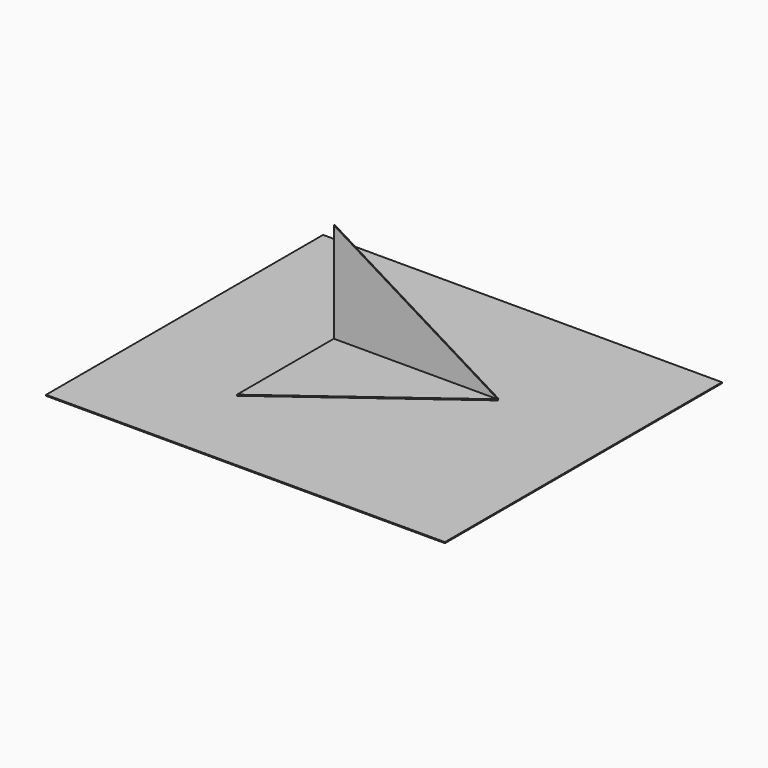
from build123d import *

# Parameters (mm, degrees)
F0_W     = 100.902356
F0_H     = 87.593154
F1_DEPTH = 0.254
F3_DEPTH = 0.254
F5_DEPTH = 0.254


with BuildPart() as f1:
    # F0 (on Top) → F1 (new body)
    with BuildSketch(Plane.XY):
        Rectangle(F0_W, F0_H)
    extrude(amount=F1_DEPTH)

    # F2 (on face) → F3 (join)
    with BuildSketch(Plane.XY.offset(0.254)):
        Polygon((20.737601, 10.059285), (-20.737601, 10.059285), (-20.737601, -20.582844), align=None)
    extrude(amount=F3_DEPTH)


with BuildPart() as f5:
    # F4 (on face) → F5 (new body)
    with BuildSketch(Plane(origin=(0, 10.059285, 0), x_dir=(-1, 0, 0), z_dir=(0, 1, 0))):
        Polygon((-20.737601, 0.508), (20.737601, 0.508), (20.737601, 25.777958), align=None)
    extrude(amount=F5_DEPTH)


solid = Compound([f1.part, f5.part])
